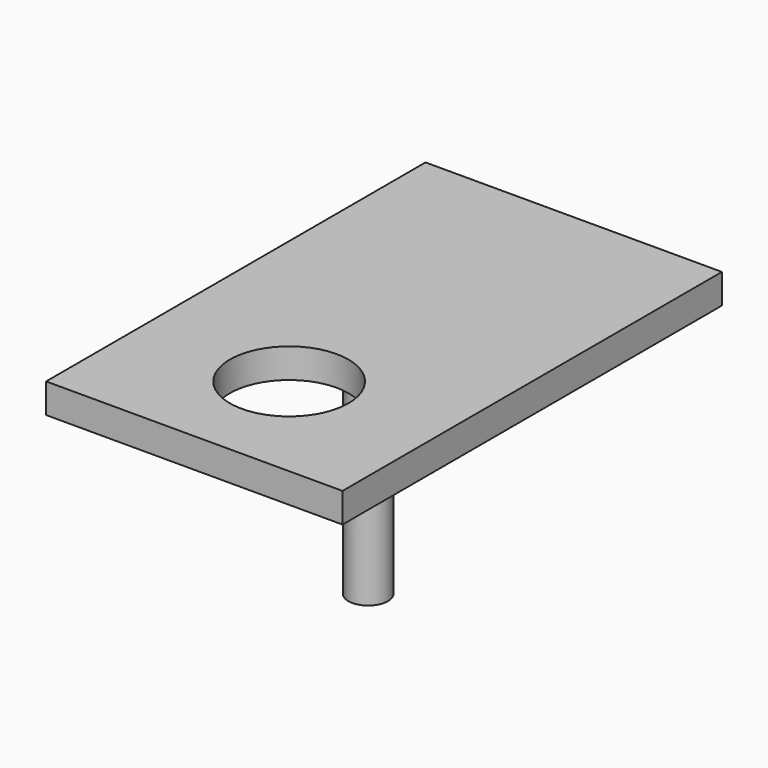
from build123d import *

# Parameters (mm, degrees)
F0_W     = 190.5
F0_H     = 304.8
F1_DEPTH = 19.05
F2_R     = 38.1
F4_DEPTH = 25.4
F3_R     = 12.7
F5_DEPTH = 127


with BuildPart() as f1:
    # F0 (on Top) → F1 (new body)
    with BuildSketch(Plane.XY):
        Rectangle(F0_W, F0_H)
    extrude(amount=F1_DEPTH)

    # F2 (on face) → F4 (cut)
    with BuildSketch(Plane(origin=(0, 0, 0), x_dir=(1, 0, 0), z_dir=(0, 0, -1))):
        with Locations((0, 76.2)):
            Circle(F2_R)
    extrude(amount=-F4_DEPTH, mode=Mode.SUBTRACT)

    # F3 (on face) → F5 (join)
    with BuildSketch(Plane(origin=(0, 0, 0), x_dir=(1, 0, 0), z_dir=(0, 0, -1))):
        with Locations((0, 12.7)):
            Circle(F3_R)
    extrude(amount=F5_DEPTH)


solid = f1.part
